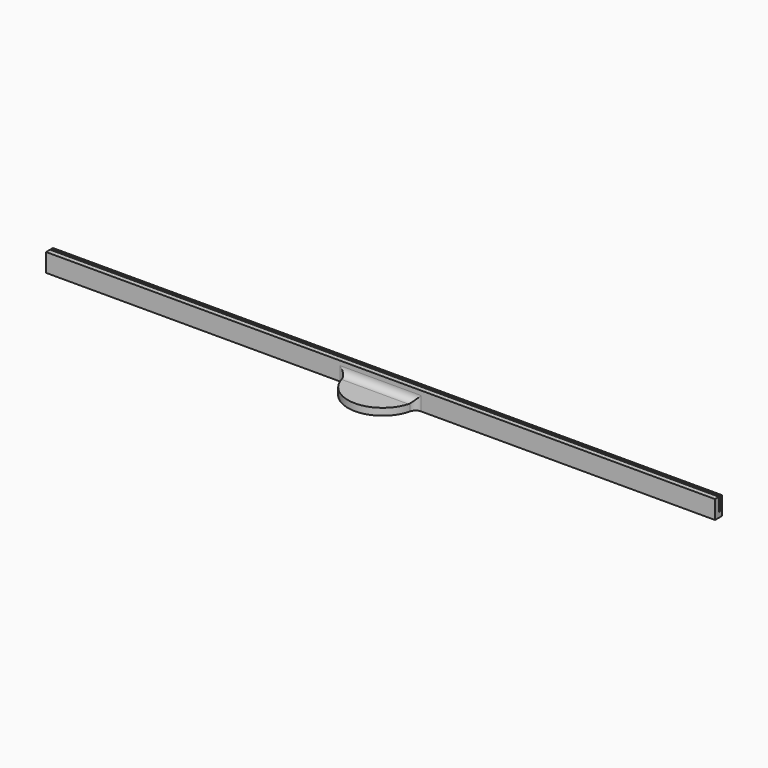
from build123d import *

# Parameters (mm, degrees)
F1_DEPTH = 304.8
F2_DEPTH = 2.032
F4_DEPTH = 1.27
F5_DEPTH = 3.175
F6_R     = 3.175


with BuildPart() as f1:
    # F0 (on Right) → F1 (new body)
    with BuildSketch(Plane.YZ):
        Polygon((-2.667, 0), (0, 0), (0, 6.35), (-1.016, 6.35), (-1.016, 0.254), (-1.651, 0.254), (-1.651, 6.35), (-2.667, 6.35), align=None)
    extrude(amount=F1_DEPTH)

    # F2 (add): a face of the model
    f2_faces = [f1.faces().sort_by_distance(p)[0] for p in [
        (152.4, -1.3335, 0),
    ]]
    extrude(f2_faces, amount=F2_DEPTH)

    # F4 (add): a face of the model
    f4_faces = [f1.faces().sort_by_distance(p)[0] for p in [
        (152.4, -2.667, 2.159),
    ]]
    extrude(f4_faces, amount=F4_DEPTH)

    # F3 (on face) → F5 (join)
    with BuildSketch(Plane(origin=(0, 0, -2.032), x_dir=(1, 0, 0), z_dir=(0, 0, -1))):
        with BuildLine():
            Line((136.525, 2.667), (168.275, 2.667))
            ThreePointArc((168.275, 2.667), (152.4, 18.542), (136.525, 2.667))
        make_face()
    extrude(amount=-F5_DEPTH)

    # F6
    f6_edges = [f1.edges().sort_by_distance(p)[0] for p in [
        (152.4, -3.937, 1.143),
        (136.575882, -3.937, -0.4445),
        (168.224118, -3.937, -0.4445),
    ]]
    fillet(f6_edges, radius=F6_R)


solid = f1.part
